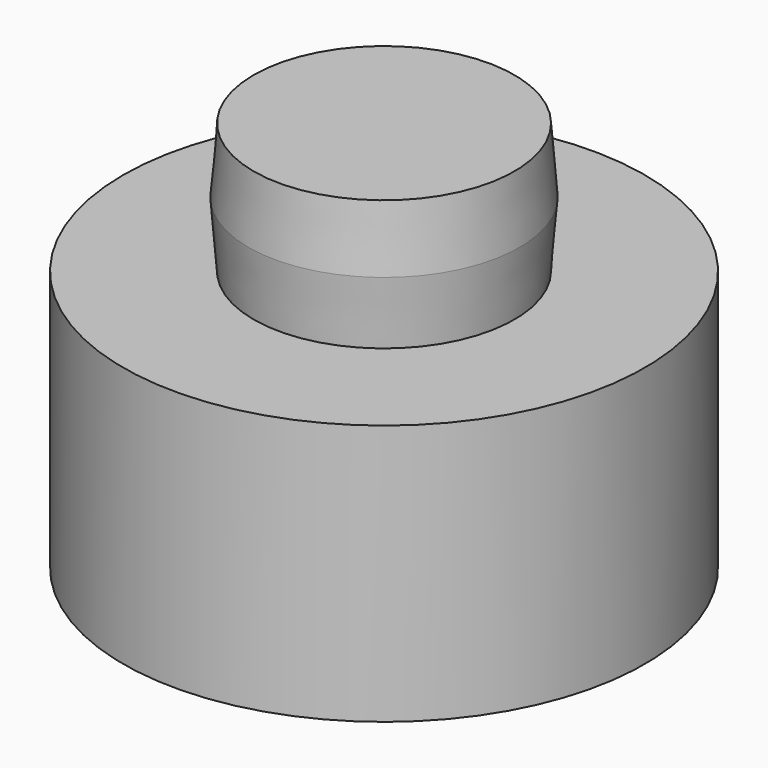
from build123d import *


with BuildPart() as f1:
    # F0 (on Front) → F1 (revolve)
    with BuildSketch(Plane.XZ):
        Polygon((-6.35, 12.7), (-6.35, 19.05), (-6.604, 15.875), align=None)
        Polygon((-12.7, 0), (0, 0), (0, 19.05), (-6.35, 19.05), (-6.35, 12.7), (-12.7, 12.7), align=None)
    revolve(axis=Axis((0, 0, 9.525), (0, 0, -1)))


solid = f1.part
